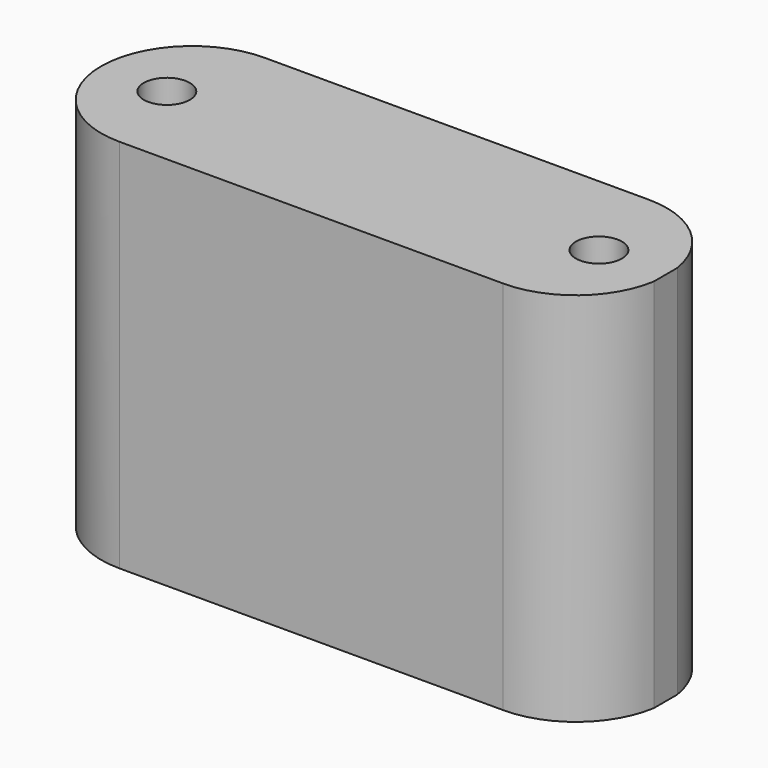
from build123d import *

# Parameters (mm, degrees)
F0_W      = 47
F0_H      = 31
F1_DEPTH  = 15
F2_R      = 1.9
F3_DEPTH  = 60
F5_DEPTH  = 70
F6_R      = 1.9
F7_DEPTH  = 80
F9_DEPTH  = 70
F11_DEPTH = 70


with BuildPart() as f1:
    # F0 (on Front) → F1 (new body)
    with BuildSketch(Plane.XZ):
        with Locations((-69.120786, -3.705296)):
            Rectangle(F0_W, F0_H)
    extrude(amount=F1_DEPTH)

    # F2 (on face) → F3 (cut)
    with BuildSketch(Plane(origin=(0, 0, -19.205296), x_dir=(1, 0, 0), z_dir=(0, 0, -1))):
        with Locations((-51.120786, 7.5)):
            Circle(F2_R)
    extrude(amount=-F3_DEPTH, mode=Mode.SUBTRACT)

    # F4 (on face) → F5 (cut)
    with BuildSketch(Plane(origin=(0, 0, -19.205296), x_dir=(1, 0, 0), z_dir=(0, 0, -1))):
        with BuildLine():
            ThreePointArc((-84.706673, 0), (-92.206673, 7.5), (-84.706673, 15))
            Line((-84.706673, 15), (-92.620786, 15))
            Line((-92.620786, 15), (-92.620786, 0))
            Line((-92.620786, 0), (-84.706673, 0))
        make_face()
    extrude(amount=-F5_DEPTH, mode=Mode.SUBTRACT)

    # F6 (on face) → F7 (cut)
    with BuildSketch(Plane(origin=(0, 0, -19.205296), x_dir=(1, 0, 0), z_dir=(0, 0, -1))):
        with Locations((-86.707558, 7.5987)):
            Circle(F6_R)
    extrude(amount=-F7_DEPTH, mode=Mode.SUBTRACT)

    # F8 (on face) → F9 (cut)
    with BuildSketch(Plane(origin=(0, 0, -19.205296), x_dir=(1, 0, 0), z_dir=(0, 0, -1))):
        with BuildLine():
            Line((-45.620786, 0), (19.677406, 0))
            ThreePointArc((19.677406, 0), (27.177406, 7.5), (19.677406, 15))
            Line((19.677406, 15), (-45.620786, 15))
            Line((-45.620786, 15), (-45.620786, 0))
        make_face()
    extrude(amount=-F9_DEPTH, mode=Mode.SUBTRACT)

    # F10 (on face) → F11 (cut)
    with BuildSketch(Plane.XY.offset(11.794704)):
        with BuildLine():
            ThreePointArc((-53.020786, 0), (-48.168205, -1.781394), (-45.620786, -6.279344))
            Line((-45.620786, -6.279344), (-45.620786, 0))
            Line((-45.620786, 0), (-53.020786, 0))
        make_face()
        with BuildLine():
            Line((-45.620786, -6.279344), (-45.620786, -8.720656))
            ThreePointArc((-45.620786, -8.720656), (-45.520786, -7.5), (-45.620786, -6.279344))
        make_face()
        with BuildLine():
            ThreePointArc((-45.620786, -8.720656), (-48.168205, -13.218606), (-53.020786, -15))
            Line((-53.020786, -15), (-45.620786, -15))
            Line((-45.620786, -15), (-45.620786, -8.720656))
        make_face()
    extrude(amount=-F11_DEPTH, mode=Mode.SUBTRACT)


solid = f1.part
